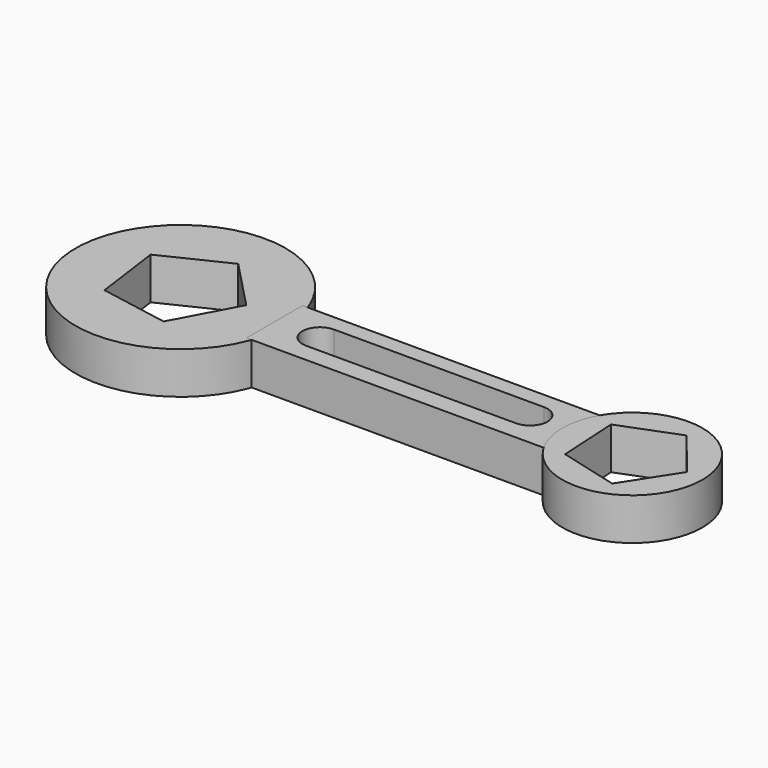
from build123d import *

# Parameters (mm, degrees)
F0_R     = 30
F3_DEPTH = 12
F2_W     = 85.4578563434
F2_H     = 20
F1_R     = 20


with BuildPart() as f3:
    # F0 (on Top) → F3 (new body)
    with BuildSketch(Plane.XY):
        with Locations((-58.6753451633, 0)):
            Circle(F0_R)
        Polygon((-73.6932197748, 8.0602907078), (-55.6503316367, 16.7736143185), (-41.7879093759, 2.3063730552), (-51.2633493904, -15.3481973796), (-70.9819156385, -11.7920807019), align=None, mode=Mode.SUBTRACT)
    extrude(amount=F3_DEPTH)


with BuildPart() as f3b:
    # F2 (on Top) → F3, piece 2 (new body)
    with BuildSketch(Plane.XY):
        with Locations((10.8655309305, 0)):
            Rectangle(F2_W, F2_H)
        with BuildLine():
            ThreePointArc((-19.1753451633, -4.6474677511), (-24.1753451633, 0.3525322489), (-19.1753451633, 5.3525322489))
            Line((-19.1753451633, 5.3525322489), (40.8246548367, 5.3525322489))
            ThreePointArc((40.8246548367, 5.3525322489), (44.3601887427, 3.8880661549), (45.8246548367, 0.3525322489))
            ThreePointArc((45.8246548367, 0.3525322489), (44.3601887427, -3.183001657), (40.8246548367, -4.6474677511))
            Line((40.8246548367, -4.6474677511), (-19.1753451633, -4.6474677511))
        make_face(mode=Mode.SUBTRACT)
    extrude(amount=F3_DEPTH)


with BuildPart() as f3c:
    # F1 (on Top) → F3, piece 3 (new body)
    with BuildSketch(Plane.XY):
        with Locations((70.3246548367, 0)):
            Circle(F1_R)
        Polygon((57.7153999166, 8.1292919608), (74.1595968722, 14.5042034255), (85.3040342797, 0.8347987359), (75.7474784274, -13.988269433), (58.6967646878, -9.4800246893), align=None, mode=Mode.SUBTRACT)
    extrude(amount=F3_DEPTH)


solid = Compound([f3.part, f3b.part, f3c.part])
